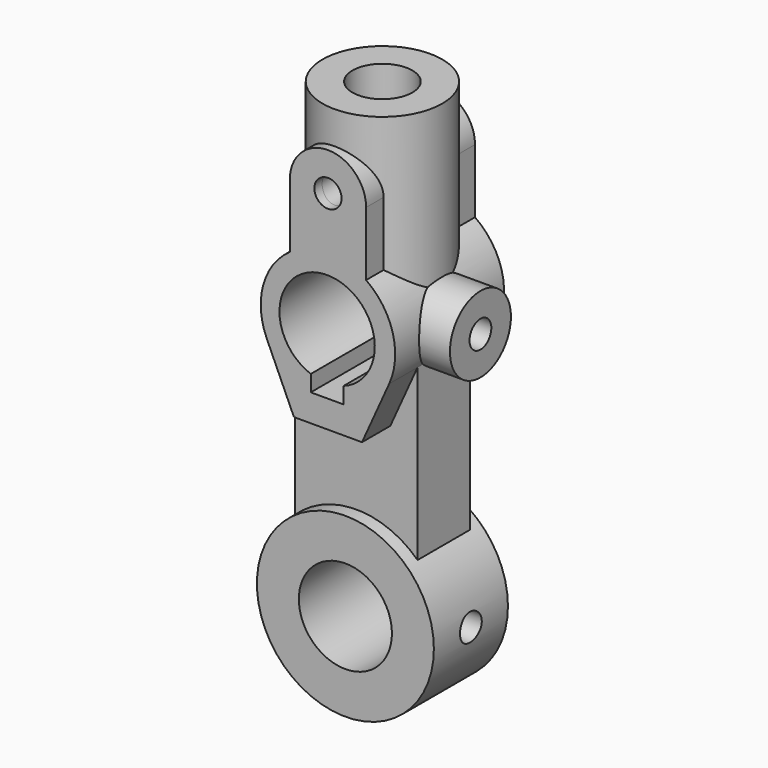
from build123d import *

# Parameters (mm, degrees)
F0_W           = 45
F0_H           = 96
F1_DEPTH       = 12
F2_R           = 32.5
F3_DEPTH       = 17
F4_R           = 5
F5_DEPTH       = 25
F6_R           = 17.0948723133
F7_DEPTH       = 42.001
F9_START       = 25
F8_R           = 5
F9_DEPTH       = 75
F10_R          = 22
F11_DEPTH      = 70
F12_R          = 11
F13_DEPTH      = 60
F14_R          = 14
F15_DEPTH      = 36
F16_R          = 5
F17_DEPTH      = 25
F19_DEPTH      = 25.0010001
F19_DEPTH_BACK = 25
F20_R          = 5
F21_DEPTH      = 25.0010001


with BuildPart() as f1:
    # F0 (on Front) → F1 (new body, symmetric)
    with BuildSketch(Plane.XZ):
        with Locations((0, 48)):
            Rectangle(F0_W, F0_H)
    extrude(amount=F1_DEPTH, both=True)

    # F2 (on Front) → F3 (join, symmetric)
    with BuildSketch(Plane.XZ):
        Circle(F2_R)
    extrude(amount=F3_DEPTH, both=True)

    # F4 (on Front) → F5 (join, symmetric)
    with BuildSketch(Plane.XZ):
        with BuildLine():
            ThreePointArc((14, 140), (0, 154), (-14, 140))
            Line((-14, 140), (-14, 116.4995838087))
            ThreePointArc((-14, 116.4995838087), (-23.792144731, 102.6409215632), (-22.4801481153, 85.7226686231))
            Line((-22.4801481153, 85.7226686231), (-12.5, 63.5918357929))
            Line((-12.5, 63.5918357929), (12.5, 63.5918357929))
            Line((12.5, 63.5918357929), (22.4801481153, 85.7226686231))
            ThreePointArc((22.4801481153, 85.7226686231), (23.792144731, 102.6409215632), (14, 116.4995838087))
            Line((14, 116.4995838087), (14, 140))
        make_face()
        with BuildLine():
            Line((-6.3096842617, 73.6), (-6.3096842617, 79.5607177772))
            ThreePointArc((-6.3096842617, 79.5607177772), (-0.3096842617, 113.5), (5.6903157383, 79.5607177772))
            Line((5.6903157383, 79.5607177772), (5.6903157383, 73.6))
            Line((5.6903157383, 73.6), (-6.3096842617, 73.6))
        make_face(mode=Mode.SUBTRACT)
        with Locations((0, 140)):
            Circle(F4_R, mode=Mode.SUBTRACT)
    extrude(amount=F5_DEPTH, both=True)

    # F6 (on face) → F7 (cut, through all)
    with BuildSketch(Plane.XZ.offset(17)):
        Circle(F6_R)
    extrude(amount=-F7_DEPTH, mode=Mode.SUBTRACT)

    # F8 (on Right) → F9 (cut)
    with BuildSketch(Plane.YZ.offset(F9_START)):
        Circle(F8_R)
    extrude(amount=F9_DEPTH, mode=Mode.SUBTRACT)

    # F10 (on face) → F11 (join)
    with BuildSketch(Plane.XY.offset(96)):
        Circle(F10_R)
    extrude(amount=F11_DEPTH)

    # F12 (on face) → F13 (cut)
    with BuildSketch(Plane.XY.offset(166)):
        Circle(F12_R)
    extrude(amount=-F13_DEPTH, mode=Mode.SUBTRACT)

    # F14 (on Right) → F15 (join)
    with BuildSketch(Plane.YZ):
        with Locations((0, 96)):
            Circle(F14_R)
    extrude(amount=F15_DEPTH)

    # F16 (on face) → F17 (cut)
    with BuildSketch(Plane.YZ.offset(36)):
        with Locations((0, 96)):
            Circle(F16_R)
    extrude(amount=-F17_DEPTH, mode=Mode.SUBTRACT)

    # F18 (on Front) → F19 (cut, two sides)
    with BuildSketch(Plane.XZ) as f19_sk:
        with BuildLine():
            ThreePointArc((5.6903157383, 79.5607177772), (14.029946138, 85.9687986761), (17.1903157383, 96))
            ThreePointArc((17.1903157383, 96), (-10.3408855855, 110.3396303997), (-6.3096842617, 79.5607177772))
            Line((-6.3096842617, 79.5607177772), (5.6903157383, 79.5607177772))
        make_face()
        with BuildLine():
            Line((5.6903157383, 79.5607177772), (-6.3096842617, 79.5607177772))
            ThreePointArc((-6.3096842617, 79.5607177772), (-0.3096842617, 78.5), (5.6903157383, 79.5607177772))
        make_face()
        with BuildLine():
            ThreePointArc((5.6903157383, 79.5607177772), (-0.3096842617, 78.5), (-6.3096842617, 79.5607177772))
            Line((-6.3096842617, 79.5607177772), (-6.3096842617, 73.6))
            Line((-6.3096842617, 73.6), (5.6903157383, 73.6))
            Line((5.6903157383, 73.6), (5.6903157383, 79.5607177772))
        make_face()
    extrude(amount=-F19_DEPTH, mode=Mode.SUBTRACT)
    extrude(f19_sk.sketch, amount=F19_DEPTH_BACK, mode=Mode.SUBTRACT)

    # F20 (on Front) → F21 (cut, through all)
    with BuildSketch(Plane.XZ):
        with Locations((0, 140)):
            Circle(F20_R)
    extrude(amount=F21_DEPTH, mode=Mode.SUBTRACT)


solid = f1.part
